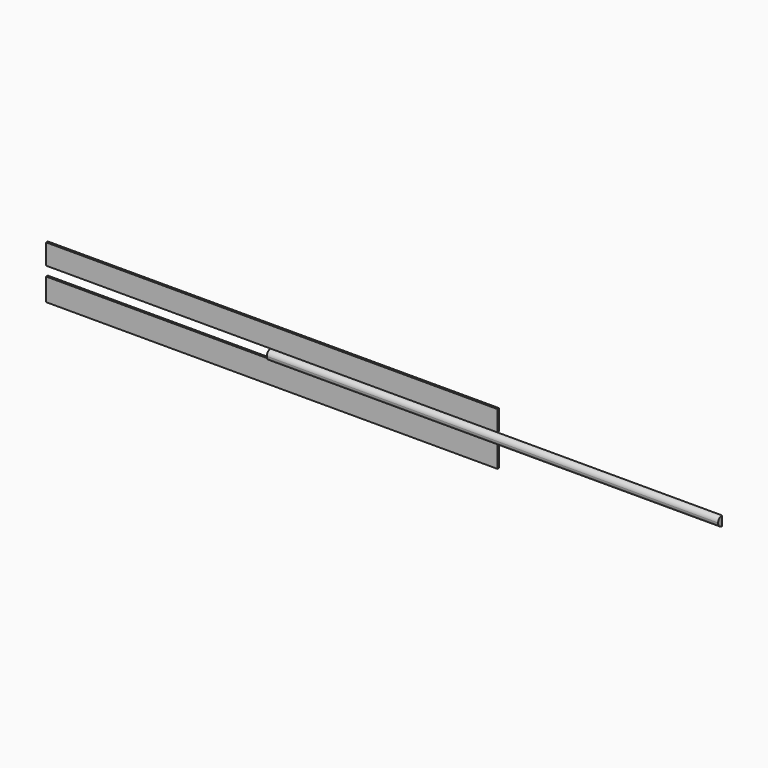
from build123d import *

# Parameters (mm, degrees)
F0_W     = 330.2
F0_H     = 16.51
F1_DEPTH = 1.524
F3_DEPTH = 330.2


with BuildPart() as f1:
    # F0 (on Front) → F1 (new body)
    with BuildSketch(Plane.XZ):
        Polygon((165.928262, -85.526515), (-164.271738, -85.526515), (-164.271738, -100.537915), (165.928262, -100.537915), (165.928262, -85.761546), align=None)
        with Locations((0.828262, -115.777915)):
            Rectangle(F0_W, F0_H)
    extrude(amount=F1_DEPTH)


with BuildPart() as f3:
    # F2 (on Right) → F3 (new body)
    with BuildSketch(Plane.YZ):
        with BuildLine():
            Line((-1.524, -107.522915), (-1.524, -100.537915))
            ThreePointArc((-1.524, -100.537915), (-3.99357, -101.560845), (-5.0165, -104.030415))
            ThreePointArc((-5.0165, -104.030415), (-3.99357, -106.499986), (-1.524, -107.522915))
        make_face()
    extrude(amount=F3_DEPTH)


solid = Compound([f1.part, f3.part])
